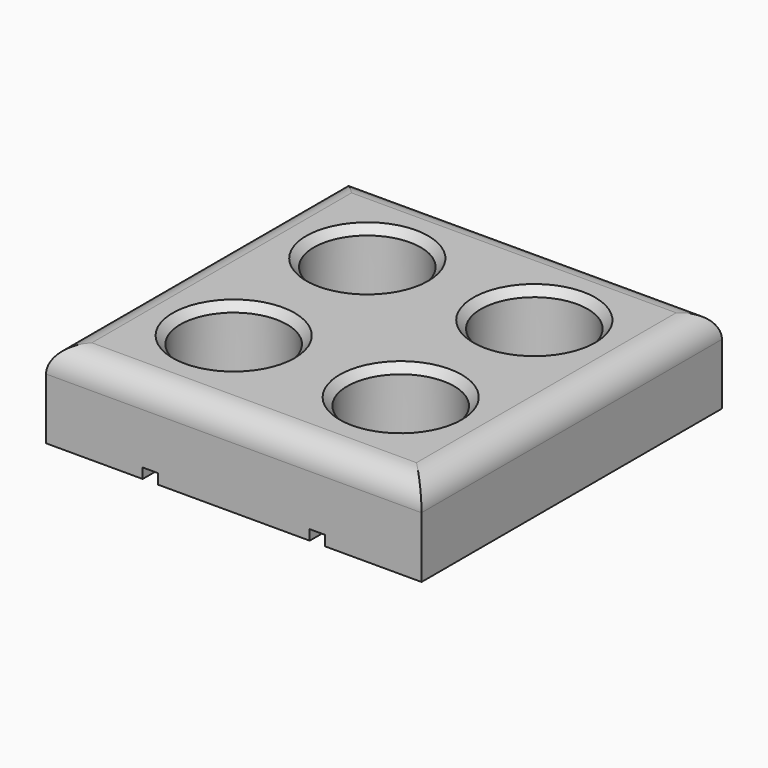
from build123d import *

# Parameters (mm, degrees)
F0_W     = 73.85
F0_H     = 73.85
F0_R     = 10.5
F1_DEPTH = 17
F2_SIZE  = 1.5
F3_R     = 5
F5_DEPTH = 2


with BuildPart() as f1:
    # F0 (on Top) → F1 (new body)
    with BuildSketch(Plane.XY):
        with Locations((16.425, -16.425)):
            Rectangle(F0_W, F0_H)
        with Locations((0, -32.85)):
            Circle(F0_R, mode=Mode.SUBTRACT)
        with Locations((32.85, -32.85)):
            Circle(F0_R, mode=Mode.SUBTRACT)
        Circle(F0_R, mode=Mode.SUBTRACT)
        with Locations((32.85, 0)):
            Circle(F0_R, mode=Mode.SUBTRACT)
    extrude(amount=F1_DEPTH)

    # F2
    f2_edges = [f1.edges().sort_by_distance(p)[0] for p in [
        (-10.5, 0, 17),
        (22.35, 0, 17),
        (22.35, -32.85, 17),
        (-10.5, -32.85, 17),
    ]]
    chamfer(f2_edges, length=F2_SIZE)

    # F3
    f3_edges = [f1.edges().sort_by_distance(p)[0] for p in [
        (16.425, -53.35, 17),
        (-20.5, -16.425, 17),
        (16.425, 20.5, 17),
        (53.35, -16.425, 17),
    ]]
    fillet(f3_edges, radius=F3_R)

    # F4 (on face) → F5 (cut)
    with BuildSketch(Plane(origin=(0, 0, 0), x_dir=(1, 0, 0), z_dir=(0, 0, -1))):
        with BuildLine():
            Line((-1.5, -10.392305), (-1.5, -20.5))
            Line((-1.5, -20.5), (1.5, -20.5))
            Line((1.5, -20.5), (1.5, -10.392305))
            ThreePointArc((1.5, -10.392305), (0, -10.5), (-1.5, -10.392305))
        make_face()
        with BuildLine():
            Line((1.5, 53.35), (-1.5, 53.35))
            Line((-1.5, 53.35), (-1.5, 43.242305))
            ThreePointArc((-1.5, 43.242305), (0, 43.35), (1.5, 43.242305))
            Line((1.5, 43.242305), (1.5, 53.35))
        make_face()
        with BuildLine():
            ThreePointArc((1.5, 43.242305), (0, 43.35), (-1.5, 43.242305))
            Line((-1.5, 43.242305), (-1.5, 22.457695))
            ThreePointArc((-1.5, 22.457695), (0, 22.35), (1.5, 22.457695))
            Line((1.5, 22.457695), (1.5, 43.242305))
        make_face()
        with BuildLine():
            ThreePointArc((1.5, 22.457695), (0, 22.35), (-1.5, 22.457695))
            Line((-1.5, 22.457695), (-1.5, 10.392305))
            ThreePointArc((-1.5, 10.392305), (0, 10.5), (1.5, 10.392305))
            Line((1.5, 10.392305), (1.5, 22.457695))
        make_face()
        with BuildLine():
            Line((34.35, 53.35), (31.35, 53.35))
            Line((31.35, 53.35), (31.35, 43.242305))
            ThreePointArc((31.35, 43.242305), (32.85, 43.35), (34.35, 43.242305))
            Line((34.35, 43.242305), (34.35, 53.35))
        make_face()
        with BuildLine():
            ThreePointArc((34.35, 22.457695), (32.85, 22.35), (31.35, 22.457695))
            Line((31.35, 22.457695), (31.35, 10.392305))
            ThreePointArc((31.35, 10.392305), (32.85, 10.5), (34.35, 10.392305))
            Line((34.35, 10.392305), (34.35, 22.457695))
        make_face()
        with BuildLine():
            Line((1.5, 53.35), (-1.5, 53.35))
            Line((-1.5, 53.35), (-1.5, 43.242305))
            ThreePointArc((-1.5, 43.242305), (0, 43.35), (1.5, 43.242305))
            Line((1.5, 43.242305), (1.5, 53.35))
        make_face()
        with BuildLine():
            ThreePointArc((34.35, 43.242305), (32.85, 43.35), (31.35, 43.242305))
            Line((31.35, 43.242305), (31.35, 22.457695))
            ThreePointArc((31.35, 22.457695), (32.85, 22.35), (34.35, 22.457695))
            Line((34.35, 22.457695), (34.35, 43.242305))
        make_face()
        with BuildLine():
            Line((31.35, -10.392305), (31.35, -20.5))
            Line((31.35, -20.5), (34.35, -20.5))
            Line((34.35, -20.5), (34.35, -10.392305))
            ThreePointArc((34.35, -10.392305), (32.85, -10.5), (31.35, -10.392305))
        make_face()
        with BuildLine():
            Line((34.35, 53.35), (31.35, 53.35))
            Line((31.35, 53.35), (31.35, 43.242305))
            ThreePointArc((31.35, 43.242305), (32.85, 43.35), (34.35, 43.242305))
            Line((34.35, 43.242305), (34.35, 53.35))
        make_face()
    extrude(amount=-F5_DEPTH, mode=Mode.SUBTRACT)


solid = f1.part
